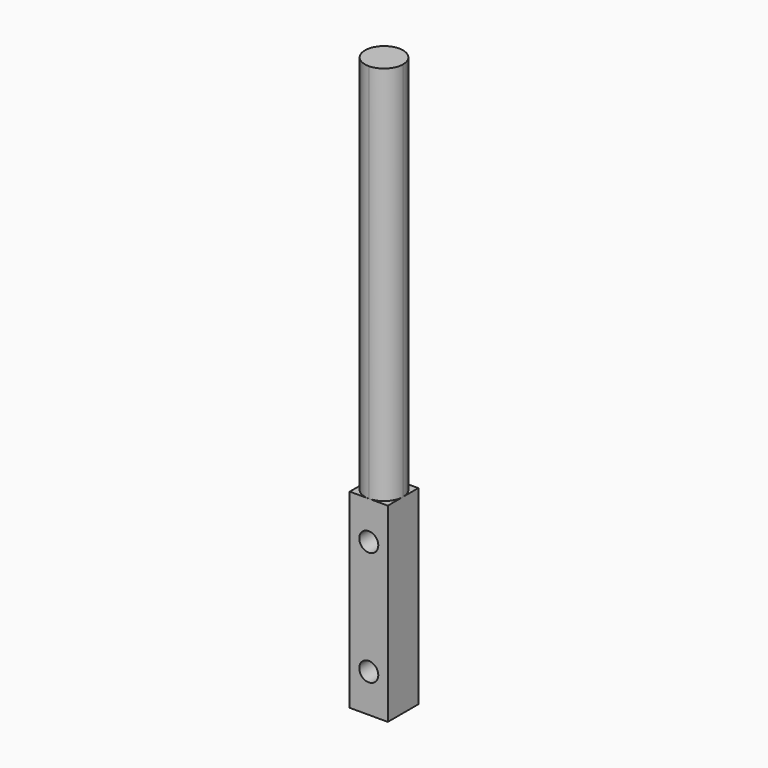
from build123d import *

# Parameters (mm, degrees)
F0_W          = 0.5
F0_H          = 0.5
F1_DEPTH      = 2
F1_DEPTH_BACK = 0.5
F3_DEPTH      = 5
F4_R          = 0.125
F5_DEPTH      = 12.5


with BuildPart() as f1:
    # F0 (on Top) → F1 (new body, two sides)
    with BuildSketch(Plane.XY) as f1_sk:
        Rectangle(F0_W, F0_H)
    extrude(amount=F1_DEPTH)
    extrude(f1_sk.sketch, amount=-F1_DEPTH_BACK)

    # F2 (on face) → F3 (join)
    with BuildSketch(Plane.XY.offset(2)):
        with BuildLine():
            ThreePointArc((0, -0.25), (0.176777, -0.176777), (0.25, 0))
            ThreePointArc((0.25, 0), (0.176777, 0.176777), (0, 0.25))
            ThreePointArc((0, 0.25), (-0.176777, 0.176777), (-0.25, 0))
            ThreePointArc((-0.25, 0), (-0.176777, -0.176777), (0, -0.25))
        make_face()
    extrude(amount=F3_DEPTH)

    # F4 (on Front) → F5 (cut, symmetric)
    with BuildSketch(Plane.XZ):
        Circle(F4_R)
        with Locations((0, 1.5)):
            Circle(F4_R)
    extrude(amount=F5_DEPTH, both=True, mode=Mode.SUBTRACT)


solid = f1.part
